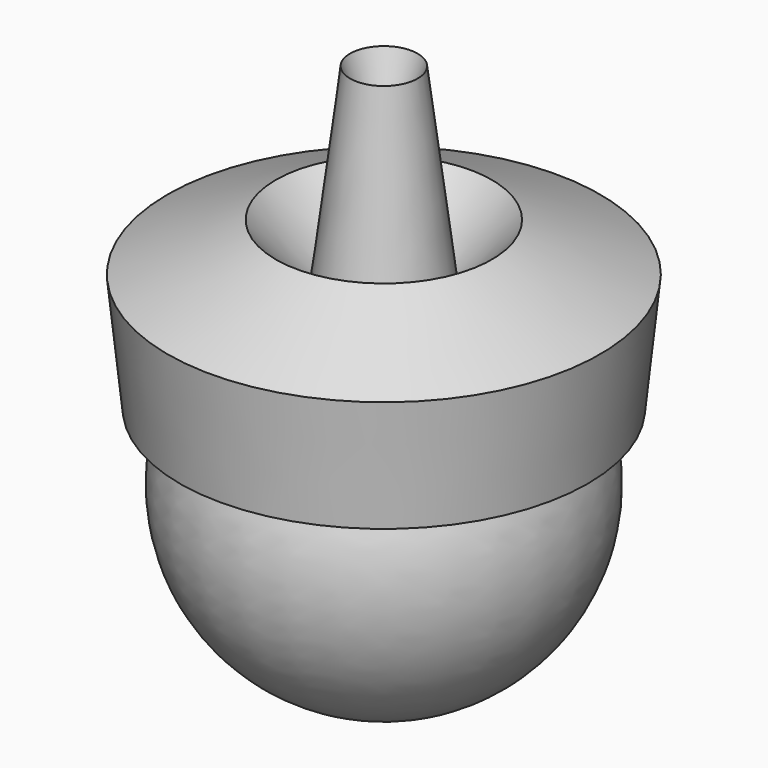
from build123d import *


with BuildPart() as f1:
    # F0 (on Front) → F1 (revolve)
    with BuildSketch(Plane.XZ):
        with BuildLine():
            Line((-11.449249, 3.731036), (-9.86774, 3.393488))
            ThreePointArc((-9.86774, 3.393488), (-8.494084, -6.061238), (0, -10.434944))
            Line((0, -10.434944), (0, 14.730793))
            Line((0, 14.730793), (-1.897407, 20.637678))
            Line((-1.897407, 20.637678), (-3.244167, 9.917834))
            Line((-3.244167, 9.917834), (-6.058942, 13.049243))
            Line((-6.058942, 13.049243), (-12.139132, 10.348283))
            Line((-12.139132, 10.348283), (-11.449249, 3.731036))
        make_face()
    revolve(axis=Axis((0, 0, 2.147925), (0, 0, -1)))


solid = f1.part
